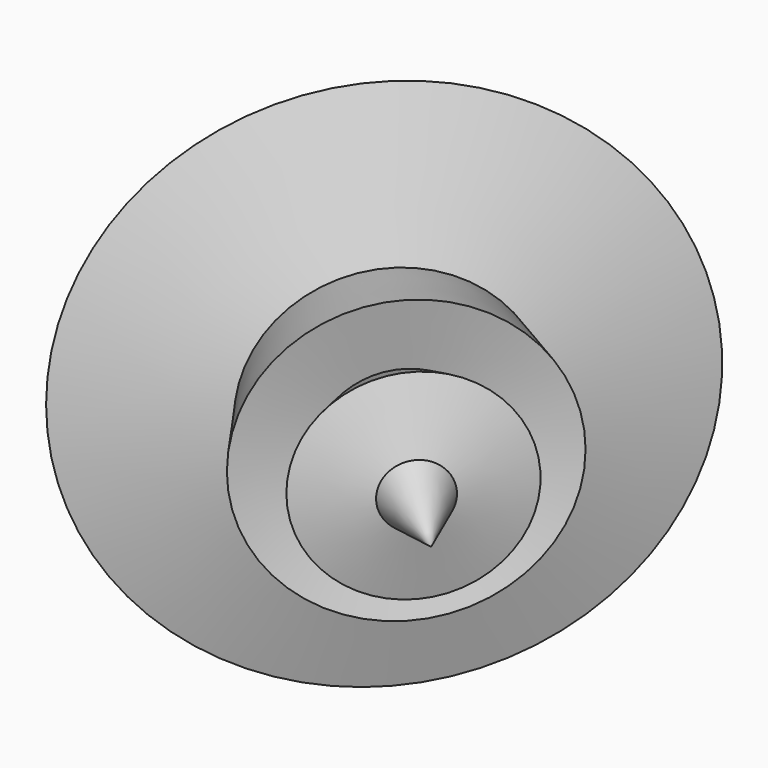
from build123d import *


with BuildPart() as f1:
    # F0 (on Top) → F1 (revolve)
    with BuildSketch(Plane.XY):
        Polygon((41.8844297528, 30.3393620998), (23.8956026733, 0), (44.5693284273, 12.6190269366), (73.5662430525, 0), align=None)
    revolve(axis=Axis((57.7253364027, 15.1696810499, 0), (0.7222429716, -0.691639422, 0)))


with BuildPart() as f1b:
    # F0 (on Top) → F1, piece 2 (revolve)
    with BuildSketch(Plane.XY):
        Polygon((17.4518469721, 30.3393620998), (3.4903702326, 0), (16.0784628242, 20.3403178602), (23.8956026733, 0), align=None)
    revolve(axis=Axis((57.7253364027, 15.1696810499, 0), (0.7222429716, -0.691639422, 0)))


with BuildPart() as f1c:
    # F0 (on Top) → F1, piece 3 (revolve)
    with BuildSketch(Plane.XY):
        Polygon((-9.9341273308, 42.9583899677), (-58.5308074951, 0), (-14.3125597388, 25.2988524735), (3.4903702326, 0), align=None)
    revolve(axis=Axis((57.7253364027, 15.1696810499, 0), (0.7222429716, -0.691639422, 0)))


solid = Compound([f1.part, f1b.part, f1c.part])
